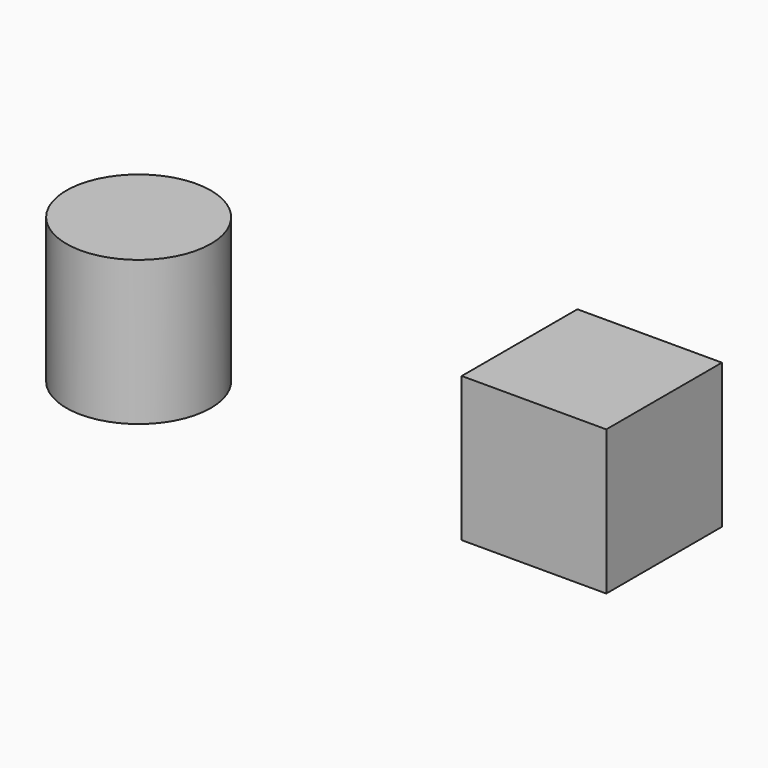
from build123d import *

# Parameters (mm, degrees)
F0_R     = 6.35
F0_W     = 12.7
F0_H     = 12.7
F1_DEPTH = 12.7


with BuildPart() as f1:
    # F0 (on Top) → F1 (new body)
    with BuildSketch(Plane.XY):
        with Locations((-25.424866, 12.170196)):
            Circle(F0_R)
        with Locations((12.977334, 13.94131)):
            Rectangle(F0_W, F0_H)
    extrude(amount=F1_DEPTH)


solid = f1.part
